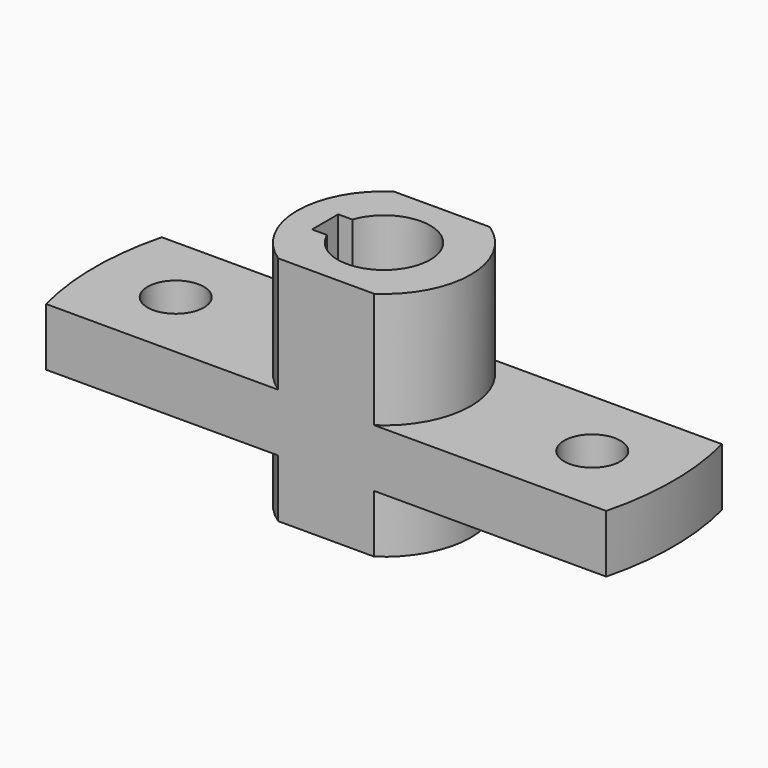
from build123d import *

# Parameters (mm, degrees)
F1_DEPTH = 20
F0_R     = 4.866363
F2_DEPTH = 10


with BuildPart() as f1:
    # F0 (on Top) → F1 (new body, symmetric)
    with BuildSketch(Plane.XY):
        with BuildLine():
            Line((8.291562, 12.5), (-8.291562, 12.5))
            ThreePointArc((-8.291562, 12.5), (-15, 0), (-8.291562, -12.5))
            Line((-8.291562, -12.5), (8.291562, -12.5))
            ThreePointArc((8.291562, -12.5), (15, 0), (8.291562, 12.5))
        make_face()
        with BuildLine():
            ThreePointArc((-7.564863, 2.602471), (7.996362, 0.241223), (-7.394234, -3.053736))
            Line((-7.394234, -3.053736), (-10, -3.053736))
            Line((-10, -3.053736), (-10, 2.602471))
            Line((-10, 2.602471), (-7.564863, 2.602471))
        make_face(mode=Mode.SUBTRACT)
    extrude(amount=F1_DEPTH, both=True)

    # F0 (on Top) → F2 (join)
    with BuildSketch(Plane.XY):
        with BuildLine():
            Line((-8.291562, 12.5), (-48.412292, 12.5))
            ThreePointArc((-48.412292, 12.5), (-50, 0), (-48.412292, -12.5))
            Line((-48.412292, -12.5), (-8.291562, -12.5))
            ThreePointArc((-8.291562, -12.5), (-15, 0), (-8.291562, 12.5))
        make_face()
        with Locations((-36, 0)):
            Circle(F0_R, mode=Mode.SUBTRACT)
        with BuildLine():
            Line((8.291562, 12.5), (-8.291562, 12.5))
            ThreePointArc((-8.291562, 12.5), (-15, 0), (-8.291562, -12.5))
            Line((-8.291562, -12.5), (8.291562, -12.5))
            ThreePointArc((8.291562, -12.5), (15, 0), (8.291562, 12.5))
        make_face()
        with BuildLine():
            ThreePointArc((-7.564863, 2.602471), (7.996362, 0.241223), (-7.394234, -3.053736))
            Line((-7.394234, -3.053736), (-10, -3.053736))
            Line((-10, -3.053736), (-10, 2.602471))
            Line((-10, 2.602471), (-7.564863, 2.602471))
        make_face(mode=Mode.SUBTRACT)
        with BuildLine():
            Line((48.412292, 12.5), (8.291562, 12.5))
            ThreePointArc((8.291562, 12.5), (15, 0), (8.291562, -12.5))
            Line((8.291562, -12.5), (48.412292, -12.5))
            ThreePointArc((48.412292, -12.5), (50, 0), (48.412292, 12.5))
        make_face()
        with Locations((36, 0)):
            Circle(F0_R, mode=Mode.SUBTRACT)
    extrude(amount=-F2_DEPTH)


solid = f1.part
